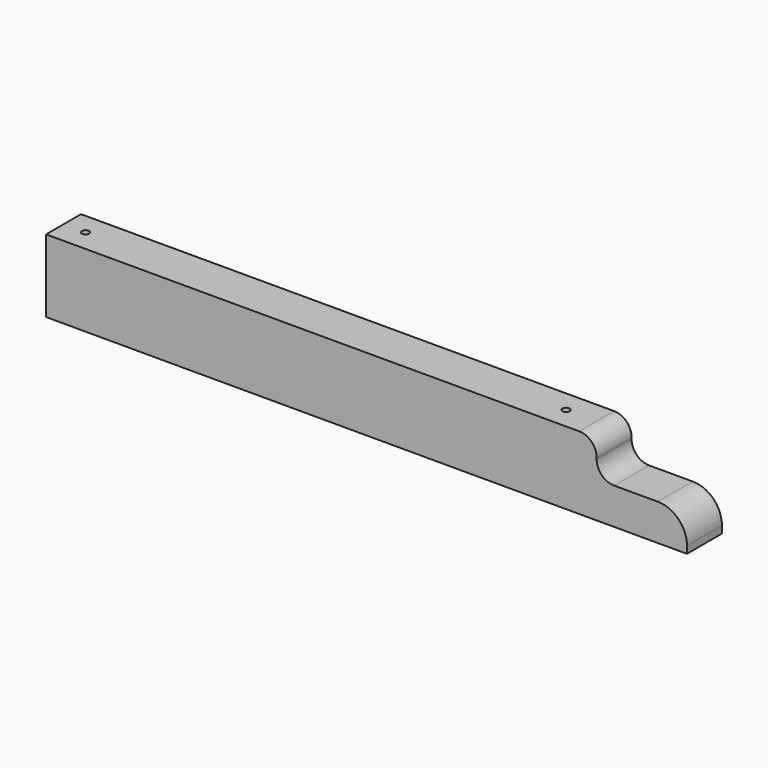
from build123d import *

# Parameters (mm, degrees)
F0_W     = 38.1
F0_H     = 63.5
F1_DEPTH = 279.4
F3_DEPTH = 38.101
F4_R     = 6.35
F5_DEPTH = 12.7
F6_R     = 3.175
F7_DEPTH = 50.801


with BuildPart() as f1:
    # F0 (on Right) → F1 (new body, symmetric)
    with BuildSketch(Plane.YZ):
        Rectangle(F0_W, F0_H)
    extrude(amount=F1_DEPTH, both=True)

    # F2 (on face) → F3 (cut, through all)
    with BuildSketch(Plane.XZ.offset(19.05)):
        with BuildLine():
            ThreePointArc((254, 0), (271.960512, -7.439488), (279.4, -25.4))
            Line((279.4, -25.4), (279.4, 31.75))
            Line((279.4, 31.75), (185.42, 31.75))
            ThreePointArc((185.42, 31.75), (196.186422, 27.276422), (200.66, 16.51))
            Line((200.66, 16.51), (200.66, 15.24))
            ThreePointArc((200.66, 15.24), (205.123693, 4.463693), (215.9, 0))
            Line((215.9, 0), (254, 0))
        make_face()
    extrude(amount=-F3_DEPTH, mode=Mode.SUBTRACT)

    # F4 (on face) → F5 (cut)
    with BuildSketch(Plane(origin=(0, 0, -31.75), x_dir=(1, 0, 0), z_dir=(0, 0, -1))):
        with Locations((-260.35, 0)):
            Circle(F4_R)
        with Locations((158.75, 0)):
            Circle(F4_R)
    extrude(amount=-F5_DEPTH, mode=Mode.SUBTRACT)

    # F6 (on face) → F7 (cut, through all)
    with BuildSketch(Plane(origin=(0, 0, -19.05), x_dir=(1, 0, 0), z_dir=(0, 0, -1))):
        with Locations((-260.35, 0)):
            Circle(F6_R)
        with Locations((158.75, 0)):
            Circle(F6_R)
    extrude(amount=-F7_DEPTH, mode=Mode.SUBTRACT)


solid = f1.part
